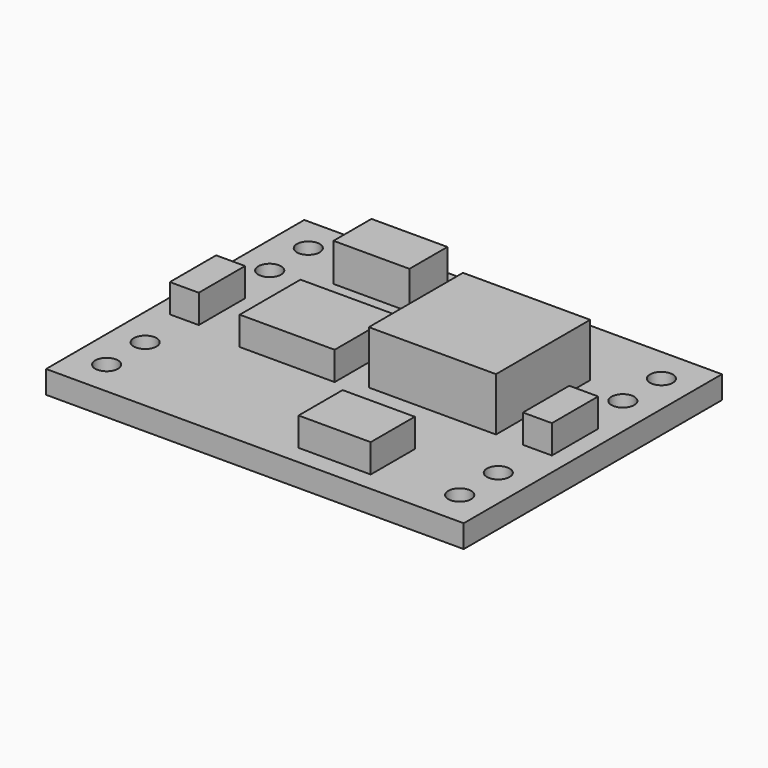
from build123d import *

# Parameters (mm, degrees)
F0_W     = 22
F0_H     = 17
F0_R     = 0.6
F1_DEPTH = 1.2
F2_W     = 1.524
F2_H     = 3.048
F2_W_2   = 5
F2_H_2   = 4
F2_W_3   = 3.8
F2_H_3   = 2.9
F3_DEPTH = 1.5
F2_W_4   = 4
F2_H_4   = 2.5
F4_DEPTH = 2
F2_W_5   = 6.7
F2_H_5   = 6.2
F5_DEPTH = 2.8


with BuildPart() as f1:
    # F0 (on Top) → F1 (new body)
    with BuildSketch(Plane.XY):
        Rectangle(F0_W, F0_H)
        with Locations((-9.3, -6.64)):
            Circle(F0_R, mode=Mode.SUBTRACT)
        with Locations((-9.3, -4.1)):
            Circle(F0_R, mode=Mode.SUBTRACT)
        with Locations((9.3, -6.64)):
            Circle(F0_R, mode=Mode.SUBTRACT)
        with Locations((9.3, -4.1)):
            Circle(F0_R, mode=Mode.SUBTRACT)
        with Locations((-9.3, 4.1)):
            Circle(F0_R, mode=Mode.SUBTRACT)
        with Locations((-9.3, 6.64)):
            Circle(F0_R, mode=Mode.SUBTRACT)
        with Locations((9.3, 4.1)):
            Circle(F0_R, mode=Mode.SUBTRACT)
        with Locations((9.3, 6.64)):
            Circle(F0_R, mode=Mode.SUBTRACT)
    extrude(amount=-F1_DEPTH)


with BuildPart() as f3:
    # F2 (on Top) → F3 (new body)
    with BuildSketch(Plane.XY):
        with Locations((9.3, 0)):
            Rectangle(F2_W, F2_H)
        with Locations((-3.5, 0)):
            Rectangle(F2_W_2, F2_H_2)
        with Locations((3.4, -6.05)):
            Rectangle(F2_W_3, F2_H_3)
        with Locations((-9.3, 0)):
            Rectangle(F2_W, F2_H)
    extrude(amount=F3_DEPTH)


with BuildPart() as f4:
    # F2 (on Top) → F4 (new body)
    with BuildSketch(Plane.XY):
        with Locations((-4.5, 6.05)):
            Rectangle(F2_W_4, F2_H_4)
    extrude(amount=F4_DEPTH)


with BuildPart() as f5:
    # F2 (on Top) → F5 (new body)
    with BuildSketch(Plane.XY):
        with Locations((3.75, 1.6)):
            Rectangle(F2_W_5, F2_H_5)
    extrude(amount=F5_DEPTH)


solid = Compound([f1.part, f3.part, f4.part, f5.part])
